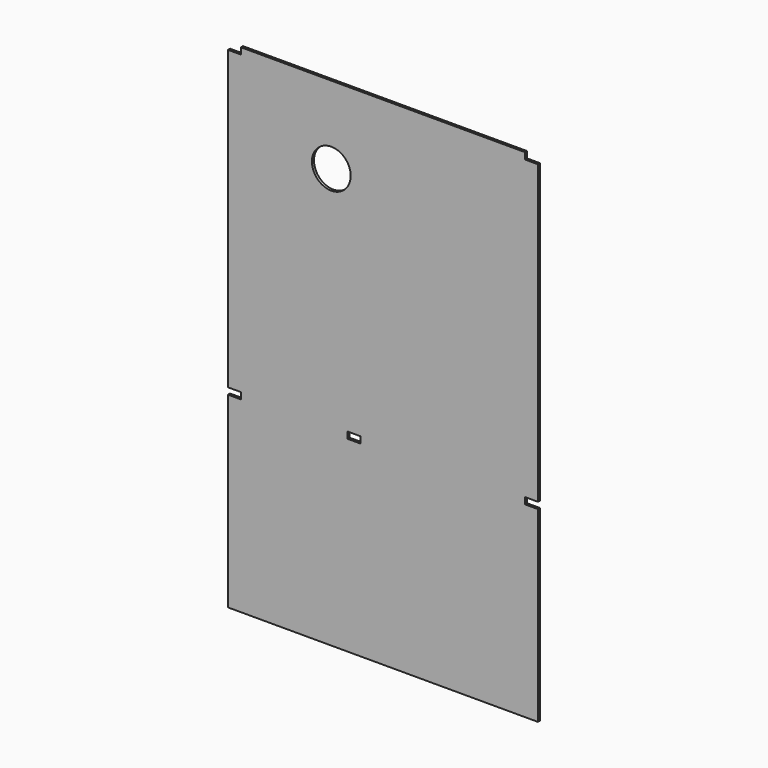
from build123d import *

# Parameters (mm, degrees)
F1_DEPTH = 10.0076
F2_W     = 50.8
F2_H     = 25.4
F3_DEPTH = 10.0086
F4_R     = 76.2
F5_DEPTH = 10.0086


with BuildPart() as f1:
    # F0 (on Front) → F1 (new body)
    with BuildSketch(Plane.XZ):
        Polygon((711.428056, 899.191029), (-507.771944, 899.191029), (-507.771944, -1056.608971), (711.174056, -1056.608971), (711.174056, -320.008971), (711.428056, -320.008971), align=None)
    extrude(amount=F1_DEPTH)

    # F2 (on face) → F3 (cut, through all)
    with BuildSketch(Plane.XZ.offset(10.0076)):
        with Locations((686.028056, 886.491029)):
            Rectangle(F2_W, F2_H)
        with Locations((-482.371944, 886.491029)):
            Rectangle(F2_W, F2_H)
        with Locations((686.028056, -307.308971)):
            Rectangle(F2_W, F2_H)
        with Locations((-482.371944, -307.308971)):
            Rectangle(F2_W, F2_H)
        with Locations((-12.471944, -307.308971)):
            Rectangle(F2_W, F2_H)
    extrude(amount=-F3_DEPTH, mode=Mode.SUBTRACT)

    # F4 (on face) → F5 (cut, through all)
    with BuildSketch(Plane.XZ.offset(10.0076)):
        with Locations((-101.371944, 594.391029)):
            Circle(F4_R)
    extrude(amount=-F5_DEPTH, mode=Mode.SUBTRACT)


solid = f1.part
